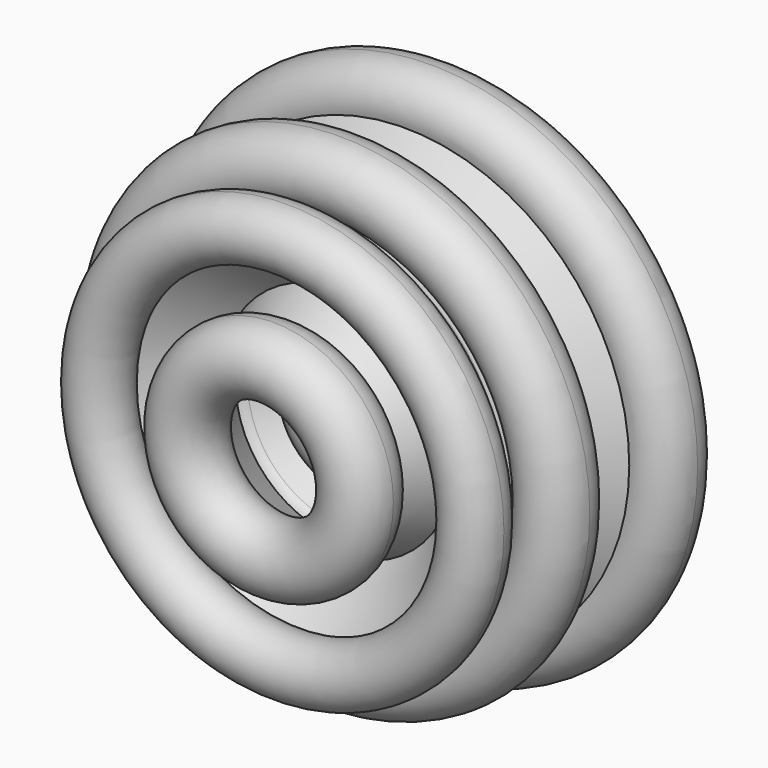
from build123d import *


with BuildPart() as f1:
    # F0 (on Top) → F1 (revolve)
    with BuildSketch(Plane.XY):
        with BuildLine():
            ThreePointArc((-23.2517361901, -13.536248858), (-27.0710531622, -13.0395963116), (-30.8903701344, -13.536248858))
            ThreePointArc((-30.8903701344, -13.536248858), (-36.180997073, -39.8067695156), (-12.1372266932, -27.9734227806))
            ThreePointArc((-12.1372266932, -27.9734227806), (-15.2377064273, -18.8634788699), (-23.2517361901, -13.536248858))
        make_face()
        with BuildLine():
            ThreePointArc((13.3695580763, -8.4515552662), (9.7040791597, -10.4661510245), (6.8635103696, -13.536248858))
            ThreePointArc((6.8635103696, -13.536248858), (13.975443309, -33.2588965886), (30.8049877497, -20.7557426841))
            ThreePointArc((30.8049877497, -20.7557426841), (25.2754914507, -10.0858406706), (13.3695580763, -8.4515552662))
        make_face()
        with BuildLine():
            ThreePointArc((45.2924029314, 8.418525248), (33.1217060845, 23.0768974828), (16.4754674099, 13.8088622919))
            ThreePointArc((16.4754674099, 13.8088622919), (15.7002627988, 11.0448151173), (15.4690336699, 8.1834462032))
            ThreePointArc((15.4690336699, 8.1834462032), (30.4973349836, -6.4936226209), (45.2924029314, 8.418525248))
        make_face()
        with BuildLine():
            add(Edge.make_bspline(
                [(-11.7414096665, 24.3018190816), (-31.1890042705, 39.7215670823), (-19.4713620952, 19.7261186178)],
                knots=[2.0201571546, 2.0201571546, 2.0201571546, 4.1242580263, 4.1242580263, 4.1242580263], degree=2, weights=[1, 0.4957914075, 1]))
            add(Edge.make_bspline(
                [(-19.4713620952, 19.7261186178), (-24.4201583095, 14.9638600008), (-22.5592106581, 10.8284214512)],
                knots=[5.2473724377, 5.2473724377, 5.2473724377, 6.2831853072, 6.2831853072, 6.2831853072], degree=2, weights=[1, 0.8688575281, 1]))
            add(Edge.make_bspline(
                [(-22.5592106581, 10.8284214512), (-21.7153720873, 8.9532249336), (-19.4713620952, 7.9903145842)],
                knots=[0, 0, 0, 0.5056750183, 0.5056750183, 0.5056750183], degree=2, weights=[1, 0.9682065111, 1]))
            add(Edge.make_bspline(
                [(-19.4713620952, 7.9903145842), (-17.0352431522, 6.9449697992), (-13.6498702299, 7.2558590479)],
                knots=[0.5056750183, 0.5056750183, 0.5056750183, 1.0525923777, 1.0525923777, 1.0525923777], degree=2, weights=[1, 0.9628425951, 1]))
            add(Edge.make_bspline(
                [(-13.6498702299, 7.2558590479), (-11.5118059382, 7.4522040936), (-9.313854732, 8.1834462032)],
                knots=[1.0525923777, 1.0525923777, 1.0525923777, 1.403241133, 1.403241133, 1.403241133], degree=2, weights=[1, 0.9846700103, 1]))
            add(Edge.make_bspline(
                [(-9.313854732, 8.1834462032), (-4.0590466954, 4.0169763972), (-1.1719020818, 4.3254013108)],
                knots=[5.1617498082, 5.1617498082, 5.1617498082, 6.0458636154, 6.0458636154, 6.0458636154], degree=2, weights=[1, 0.9038736335, 1]))
            Line((-1.1719020818, 4.3254013108), (-0.7814367398, 4.3965805162))
            add(Edge.make_bspline(
                [(-0.7814367398, 4.3965805162), (2.7627833488, 5.3417902016), (-1.5839023033, 12.759146667)],
                knots=[6.1134236715, 6.1134236715, 6.1134236715, 7.2658506799, 7.2658506799, 7.2658506799], degree=2, weights=[1, 0.8385317389, 1]))
            add(Edge.make_bspline(
                [(-1.5839023033, 12.759146667), (-1.0500992962, 13.2728287546), (-0.5876264537, 13.8088622919)],
                knots=[2.1057797841, 2.1057797841, 2.1057797841, 2.2285453926, 2.2285453926, 2.2285453926], degree=2, weights=[1, 0.9981166671, 1]))
            add(Edge.make_bspline(
                [(-0.5876264537, 13.8088622919), (0.3347807255, 14.8779870871), (0.9355723012, 15.987516469)],
                knots=[2.2285453926, 2.2285453926, 2.2285453926, 2.4724937045, 2.4724937045, 2.4724937045], degree=2, weights=[1, 0.9925703708, 1]))
            add(Edge.make_bspline(
                [(0.9355723012, 15.987516469), (2.9805734272, 19.7641819995), (1.0194876382, 22.4964724895)],
                knots=[2.4724937045, 2.4724937045, 2.4724937045, 3.2630738602, 3.2630738602, 3.2630738602], degree=2, weights=[1, 0.9228849012, 1]))
            add(Edge.make_bspline(
                [(1.0194876382, 22.4964724895), (-2.4863004093, 27.3809254777), (-11.7414096665, 24.3018190816)],
                knots=[3.2630738602, 3.2630738602, 3.2630738602, 4.5448337866, 4.5448337866, 4.5448337866], degree=2, weights=[1, 0.8015699374, 1]))
        make_face()
        with BuildLine():
            ThreePointArc((33.8676168264, 44.4646982737), (29.9579045581, 46.2232545701), (26.7189615682, 49.0317450144))
            Line((26.7189615682, 49.0317450144), (1.0194876382, 22.4964724895))
            add(Edge.make_bspline(
                [(0.9355723012, 15.987516469), (2.9805734272, 19.7641819995), (1.0194876382, 22.4964724895)],
                knots=[2.4724937045, 2.4724937045, 2.4724937045, 3.2630738602, 3.2630738602, 3.2630738602], degree=2, weights=[1, 0.9228849012, 1]))
            Line((0.9355723012, 15.987516469), (33.8676168264, 44.4646982737))
        make_face()
        with BuildLine():
            add(Edge.make_bspline(
                [(-19.4713620952, 7.9903145842), (-17.0352431522, 6.9449697992), (-13.6498702299, 7.2558590479)],
                knots=[0.5056750183, 0.5056750183, 0.5056750183, 1.0525923777, 1.0525923777, 1.0525923777], degree=2, weights=[1, 0.9628425951, 1]))
            Line((-19.4713620952, 7.9903145842), (-30.8903701344, -13.536248858))
            ThreePointArc((-30.8903701344, -13.536248858), (-27.0710531622, -13.0395963116), (-23.2517361901, -13.536248858))
            Line((-23.2517361901, -13.536248858), (-13.6498702299, 7.2558590479))
        make_face()
        with BuildLine():
            ThreePointArc((-30.2605190286, 23.1607891619), (-30.4188251552, 25.3239195539), (-30.8903701344, 27.4409550414))
            ThreePointArc((-30.8903701344, 27.4409550414), (-32.1484442876, 30.4090273111), (-34.0170833726, 33.0358869463))
            ThreePointArc((-34.0170833726, 33.0358869463), (-59.6266038596, 19.9561207433), (-30.8903701344, 18.8806232824))
            ThreePointArc((-30.8903701344, 18.8806232824), (-30.4188251552, 20.9976587699), (-30.2605190286, 23.1607891619))
        make_face()
        with BuildLine():
            ThreePointArc((23.4454086479, 61.5985374837), (23.1860899668, 57.6018309982), (24.0114505378, 53.6826871074))
            ThreePointArc((24.0114505378, 53.6826871074), (25.151309901, 51.2326980215), (26.7189615682, 49.0317450144))
            ThreePointArc((26.7189615682, 49.0317450144), (29.9579045581, 46.2232545701), (33.8676168264, 44.4646982737))
            ThreePointArc((33.8676168264, 44.4646982737), (46.7909573687, 46.8839761016), (52.6504301977, 58.6539469659))
            ThreePointArc((52.6504301977, 58.6539469659), (39.3792352935, 73.3304920042), (23.4454086479, 61.5985374837))
        make_face()
        with BuildLine():
            Line((-30.8903701344, 27.4409550414), (-11.6145260035, 39.1026325524))
            ThreePointArc((-11.6145260035, 39.1026325524), (-12.743704315, 40.7173052027), (-13.6498702299, 42.4668979442))
            Line((-13.6498702299, 42.4668979442), (-21.0552633496, 39.1026325524))
            Line((-21.0552633496, 39.1026325524), (-34.0170833726, 33.0358869463))
            ThreePointArc((-34.0170833726, 33.0358869463), (-32.1484442876, 30.4090273111), (-30.8903701344, 27.4409550414))
        make_face()
        with BuildLine():
            Line((-19.4713620952, 19.7261186178), (-30.8903701344, 27.4409550414))
            ThreePointArc((-30.8903701344, 27.4409550414), (-30.4188251552, 25.3239195539), (-30.2605190286, 23.1607891619))
            ThreePointArc((-30.2605190286, 23.1607891619), (-30.4188251552, 20.9976587699), (-30.8903701344, 18.8806232824))
            Line((-30.8903701344, 18.8806232824), (-22.5592106581, 10.8284214512))
            add(Edge.make_bspline(
                [(-19.4713620952, 19.7261186178), (-24.4201583095, 14.9638600008), (-22.5592106581, 10.8284214512)],
                knots=[5.2473724377, 5.2473724377, 5.2473724377, 6.2831853072, 6.2831853072, 6.2831853072], degree=2, weights=[1, 0.8688575281, 1]))
        make_face()
        with BuildLine():
            ThreePointArc((10.8664670086, 58.613519427), (12.6440998149, 56.2991991931), (13.936354064, 53.6826871074))
            Line((13.936354064, 53.6826871074), (24.0114505378, 53.6826871074))
            ThreePointArc((24.0114505378, 53.6826871074), (23.1860899668, 57.6018309982), (23.4454086479, 61.5985374837))
            Line((23.4454086479, 61.5985374837), (10.8664670086, 58.613519427))
        make_face()
        with BuildLine():
            add(Edge.make_bspline(
                [(-13.6498702299, 7.2558590479), (-11.5118059382, 7.4522040936), (-9.313854732, 8.1834462032)],
                knots=[1.0525923777, 1.0525923777, 1.0525923777, 1.403241133, 1.403241133, 1.403241133], degree=2, weights=[1, 0.9846700103, 1]))
            Line((-13.6498702299, 7.2558590479), (6.8635103696, -13.536248858))
            ThreePointArc((6.8635103696, -13.536248858), (9.7040791597, -10.4661510245), (13.3695580763, -8.4515552662))
            Line((13.3695580763, -8.4515552662), (0, 3.2957012773))
            Line((0, 3.2957012773), (-1.1719020818, 4.3254013108))
            add(Edge.make_bspline(
                [(-9.313854732, 8.1834462032), (-4.0590466954, 4.0169763972), (-1.1719020818, 4.3254013108)],
                knots=[5.1617498082, 5.1617498082, 5.1617498082, 6.0458636154, 6.0458636154, 6.0458636154], degree=2, weights=[1, 0.9038736335, 1]))
        make_face()
        with BuildLine():
            ThreePointArc((13.936354064, 53.6826871074), (14.6529291067, 51.0982016814), (14.8943972437, 48.4271086752))
            ThreePointArc((14.8943972437, 48.4271086752), (4.9422517722, 34.37658496), (-11.6145260035, 39.1026325524))
            Line((-11.6145260035, 39.1026325524), (-30.8903701344, 27.4409550414))
            Line((-30.8903701344, 27.4409550414), (-19.4713620952, 19.7261186178))
            add(Edge.make_bspline(
                [(-11.7414096665, 24.3018190816), (-31.1890042705, 39.7215670823), (-19.4713620952, 19.7261186178)],
                knots=[2.0201571546, 2.0201571546, 2.0201571546, 4.1242580263, 4.1242580263, 4.1242580263], degree=2, weights=[1, 0.4957914075, 1]))
            add(Edge.make_bspline(
                [(1.0194876382, 22.4964724895), (-2.4863004093, 27.3809254777), (-11.7414096665, 24.3018190816)],
                knots=[3.2630738602, 3.2630738602, 3.2630738602, 4.5448337866, 4.5448337866, 4.5448337866], degree=2, weights=[1, 0.8015699374, 1]))
            Line((1.0194876382, 22.4964724895), (26.7189615682, 49.0317450144))
            ThreePointArc((26.7189615682, 49.0317450144), (25.151309901, 51.2326980215), (24.0114505378, 53.6826871074))
            Line((24.0114505378, 53.6826871074), (13.936354064, 53.6826871074))
        make_face()
        with BuildLine():
            Line((16.4754674099, 13.8088622919), (-0.5876264537, 13.8088622919))
            add(Edge.make_bspline(
                [(-1.5839023033, 12.759146667), (-1.0500992962, 13.2728287546), (-0.5876264537, 13.8088622919)],
                knots=[2.1057797841, 2.1057797841, 2.1057797841, 2.2285453926, 2.2285453926, 2.2285453926], degree=2, weights=[1, 0.9981166671, 1]))
            add(Edge.make_bspline(
                [(-0.7814367398, 4.3965805162), (2.7627833488, 5.3417902016), (-1.5839023033, 12.759146667)],
                knots=[6.1134236715, 6.1134236715, 6.1134236715, 7.2658506799, 7.2658506799, 7.2658506799], degree=2, weights=[1, 0.8385317389, 1]))
            Line((-0.7814367398, 4.3965805162), (9.301045343, 6.2345491815))
            Line((9.301045343, 6.2345491815), (15.4690336699, 8.1834462032))
            ThreePointArc((15.4690336699, 8.1834462032), (15.7002627988, 11.0448151173), (16.4754674099, 13.8088622919))
        make_face()
        with BuildLine():
            ThreePointArc((-11.6145260035, 39.1026325524), (4.9422517722, 34.37658496), (14.8943972437, 48.4271086752))
            ThreePointArc((14.8943972437, 48.4271086752), (14.6529291067, 51.0982016814), (13.936354064, 53.6826871074))
            ThreePointArc((13.936354064, 53.6826871074), (12.6440998149, 56.2991991931), (10.8664670086, 58.613519427))
            ThreePointArc((10.8664670086, 58.613519427), (-8.1923854707, 60.8660752542), (-13.6498702299, 42.4668979442))
            Line((-13.6498702299, 42.4668979442), (-11.6145260035, 39.1026325524))
        make_face()
        with BuildLine():
            add(Edge.make_bspline(
                [(-1.1719020818, 4.3254013108), (-0.9657626037, 4.3474225668), (-0.7814367398, 4.3965805162)],
                knots=[6.0458636154, 6.0458636154, 6.0458636154, 6.1134236715, 6.1134236715, 6.1134236715], degree=2, weights=[1, 0.9994295091, 1]))
            Line((-0.7814367398, 4.3965805162), (-1.1719020818, 4.3254013108))
        make_face()
        with BuildLine():
            ThreePointArc((-13.6498702299, 42.4668979442), (-12.743704315, 40.7173052027), (-11.6145260035, 39.1026325524))
            Line((-11.6145260035, 39.1026325524), (-13.6498702299, 42.4668979442))
        make_face()
    revolve(axis=Axis((-64.970523119, 11.2796071917, 0), (0, -1, 0)))


solid = f1.part
